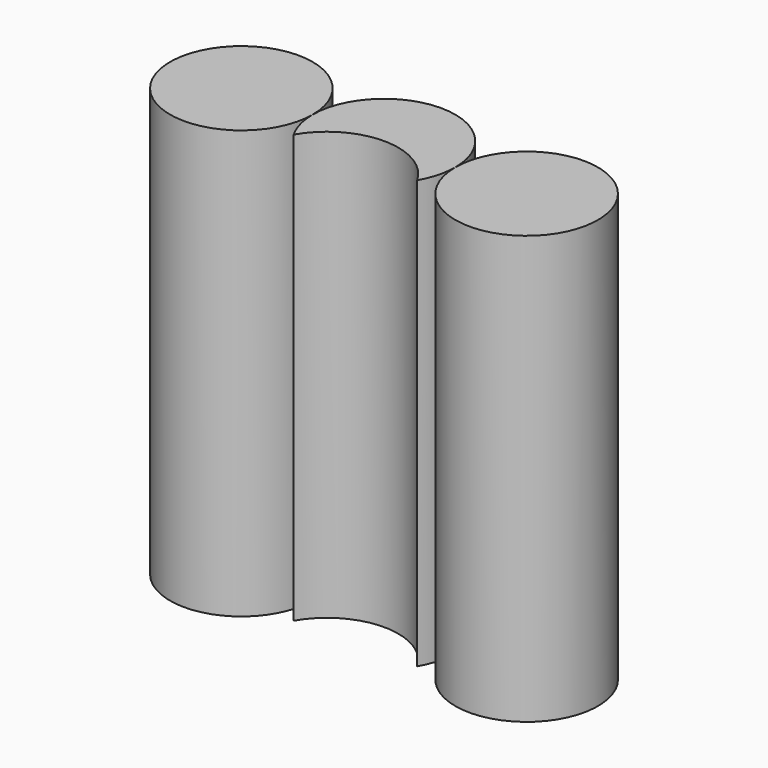
from build123d import *

# Parameters (mm, degrees)
F0_R     = 12.7
F1_DEPTH = 76.2
F2_R     = 12.7
F3_DEPTH = 76.2


with BuildPart() as f1:
    # F0 (on Top) → F1 (new body)
    with BuildSketch(Plane.XY):
        Circle(F0_R)
        with BuildLine():
            ThreePointArc((63.5, 0), (50.8, 12.7), (38.1, 0))
            ThreePointArc((38.1, 0), (50.8, -12.7), (63.5, 0))
        make_face()
        with BuildLine():
            ThreePointArc((38.1, 0), (25.4, 12.7), (12.7, 0))
            ThreePointArc((12.7, 0), (25.4, -12.7), (38.1, 0))
        make_face()
    extrude(amount=F1_DEPTH)

    # F2 (on face) → F3 (cut)
    with BuildSketch(Plane.XY.offset(76.2)):
        with Locations((25.4, -12.7)):
            Circle(F2_R)
    extrude(amount=-F3_DEPTH, mode=Mode.SUBTRACT)


solid = f1.part
